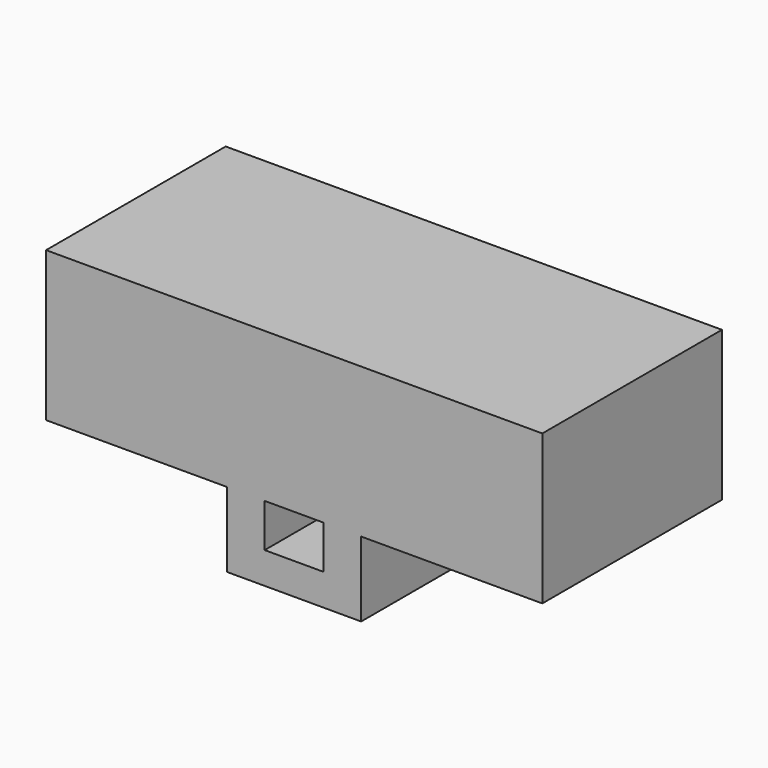
from build123d import *

# Parameters (mm, degrees)
SKETCH008_W      = 1.5
SKETCH008_H      = 1.1
EXTRUDE008_DEPTH = 5.7
BOX004_W         = 4.6
BOX004_H         = 5.7
BOX004_DEPTH     = 1.9
BOX003_W         = 4.6
BOX003_H         = 5.7
BOX003_DEPTH     = 1.9
BOX002_W         = 12.6
BOX002_H         = 5.7
BOX002_DEPTH     = 5.7


with BuildPart() as extrude008:
    # Sketch008 (on Sketch) → Extrude008 (new body)
    with BuildSketch(Plane.XZ):
        with Locations((6.3, 2.15)):
            Rectangle(SKETCH008_W, SKETCH008_H)
    extrude(amount=-EXTRUDE008_DEPTH)


with BuildPart() as cube004:
    # Box004 → Box004 (new body)
    with BuildSketch(Plane(origin=(8, 0, 0.8), x_dir=(1, 0, 0), z_dir=(0, 0, 1))):
        with Locations((2.3, 2.85)):
            Rectangle(BOX004_W, BOX004_H)
    extrude(amount=BOX004_DEPTH)


with BuildPart() as cube003:
    # Box003 → Box003 (new body)
    with BuildSketch(Plane.XY.offset(0.8)):
        with Locations((2.3, 2.85)):
            Rectangle(BOX003_W, BOX003_H)
    extrude(amount=BOX003_DEPTH)


with BuildPart() as cut015:
    # Box002 → Box002 (new body)
    with BuildSketch(Plane.XY.offset(0.8)):
        with Locations((6.3, 2.85)):
            Rectangle(BOX002_W, BOX002_H)
    extrude(amount=BOX002_DEPTH)

    # Cut: cut Cube003
    add(cube003.part, mode=Mode.SUBTRACT)

    # Cut001: cut Cube004
    add(cube004.part, mode=Mode.SUBTRACT)

    # Cut015: cut Extrude008
    add(extrude008.part, mode=Mode.SUBTRACT)


solid = cut015.part
